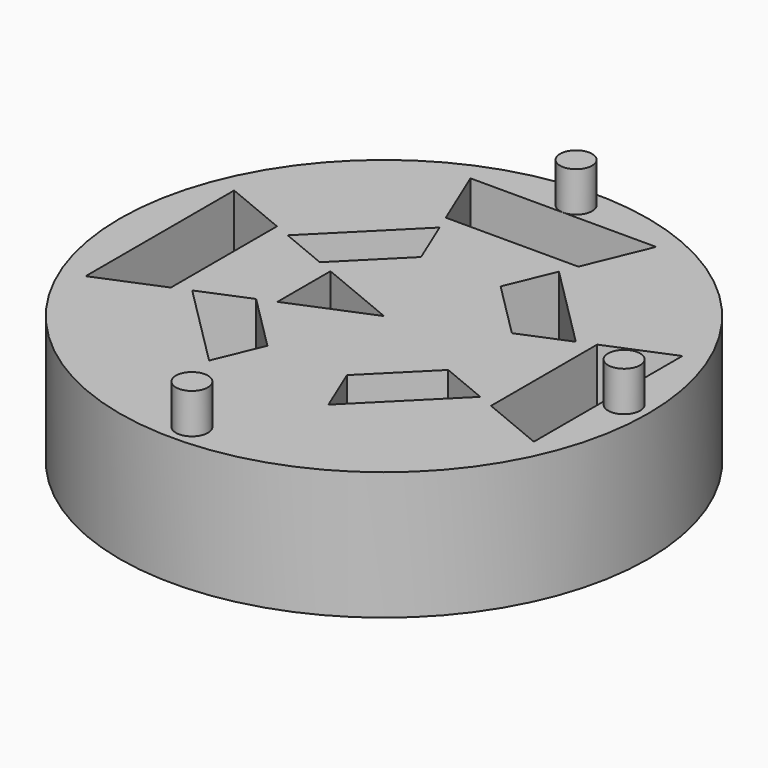
from build123d import *

# Parameters (mm, degrees)
F0_R     = 16.5
F1_DEPTH = 8
F2_R     = 1.05
F3_DEPTH = 2.5
F4_R     = 1
F5_DEPTH = 2.5
F7_DEPTH = 25


with BuildPart() as f1:
    # F0 (on Top) → F1 (new body)
    with BuildSketch(Plane.XY):
        Circle(F0_R)
    extrude(amount=F1_DEPTH)

    # F2 (on face) → F3 (cut)
    with BuildSketch(Plane(origin=(0, 0, 0), x_dir=(1, 0, 0), z_dir=(0, 0, -1))):
        with Locations((0, 15.05)):
            Circle(F2_R)
        with Locations((15, 0.05)):
            Circle(F2_R)
        with Locations((0, -14.95)):
            Circle(F2_R)
    extrude(amount=-F3_DEPTH, mode=Mode.SUBTRACT)

    # F4 (on face) → F5 (join)
    with BuildSketch(Plane.XY.offset(8)):
        with Locations((0, 15)):
            Circle(F4_R)
        with Locations((15, 0)):
            Circle(F4_R)
        with Locations((0, -15)):
            Circle(F4_R)
    extrude(amount=F5_DEPTH)

    # F6 (on face) → F7 (cut)
    with BuildSketch(Plane.XY.offset(8)):
        Polygon((-14, 5.79899), (-14, -5.79899), (-10, -4.142136), (-10, 4.142136), align=None)
        Polygon((4.142136, 10), (5.79899, 14), (0, 14), (-5.79899, 14), (-4.142136, 10), align=None)
        Polygon((10, -4.142136), (14, -5.79899), (14, 0), (14, 5.79899), (10, 4.142136), align=None)
        Polygon((-9, -3.727922), (-3.727922, -9), (-2.485281, -6), (-6, -2.485281), align=None)
        Polygon((3.727922, -9), (9, -3.727922), (6, -2.485281), (2.485281, -6), align=None)
        Polygon((-2.485281, 6), (-3.727922, 9), (-9, 3.727922), (-6, 2.485281), align=None)
        Polygon((6, 2.485281), (9, 3.727922), (3.727922, 9), (2.485281, 6), align=None)
        Polygon((-5, -2.071068), (0, 0), (-5, 2.071068), align=None)
    extrude(amount=-F7_DEPTH, mode=Mode.SUBTRACT)


solid = f1.part
